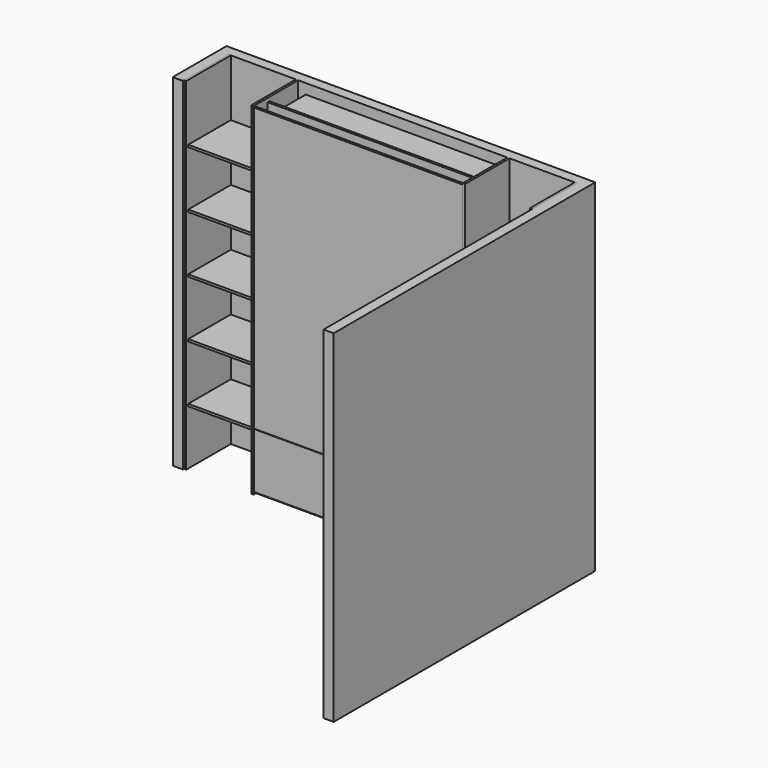
from build123d import *

# Parameters (mm, degrees)
F1_DEPTH       = 2700
F2_W           = 1530
F2_H           = 2030
F3_DEPTH       = 300
F4_W           = 18
F4_H           = 2700
F5_DEPTH       = 440
F6_W           = 18
F6_H           = 2700
F7_DEPTH       = 440
F8_W           = 514
F8_H           = 18
F9_DEPTH       = 420
F12_DEPTH      = 822
F12_DEPTH_BACK = 822
F13_W          = 300
F13_H          = 18
F14_DEPTH      = 825
F14_DEPTH_BACK = 825
F16_DEPTH      = 822
F16_DEPTH_BACK = 822
F17_W          = 18
F17_H          = 80
F18_DEPTH      = 825
F18_DEPTH_BACK = 825
F19_W          = 18
F19_H          = 2158
F20_DEPTH      = 800
F20_DEPTH_BACK = 800


with BuildPart() as f1:
    # F0 (on Top) → F1 (new body)
    with BuildSketch(Plane.XY):
        Polygon((-1455, -450), (-1375, -450), (-1375, 0), (1375, 0), (1375, -2500), (1455, -2500), (1455, 80), (-1455, 80), align=None)
    extrude(amount=F1_DEPTH)


with BuildPart() as f3:
    # F2 (on Front) → F3 (new body)
    with BuildSketch(Plane.XZ):
        with Locations((0, 1605)):
            Rectangle(F2_W, F2_H)
    extrude(amount=F3_DEPTH)


with BuildPart() as f5:
    # F4 (on Front) → F5 (new body)
    with BuildSketch(Plane.XZ):
        with Locations((-834, 1350)):
            Rectangle(F4_W, F4_H)
    extrude(amount=F5_DEPTH)


with BuildPart() as f7:
    # F6 (on Front) → F7 (new body)
    with BuildSketch(Plane.XZ):
        with Locations((-1366, 1350)):
            Rectangle(F6_W, F6_H)
    extrude(amount=F7_DEPTH)


with BuildPart() as f9:
    # F8 (on Front) → F9 (new body)
    with BuildSketch(Plane.XZ):
        with Locations((-1100, 2241)):
            Rectangle(F8_W, F8_H)
    extrude(amount=F9_DEPTH)


with BuildPart() as f9b:
    # F8 (on Front) → F9, piece 2 (new body)
    with BuildSketch(Plane.XZ):
        with Locations((-1100, 1791)):
            Rectangle(F8_W, F8_H)
    extrude(amount=F9_DEPTH)


with BuildPart() as f9c:
    # F8 (on Front) → F9, piece 3 (new body)
    with BuildSketch(Plane.XZ):
        with Locations((-1100, 1341)):
            Rectangle(F8_W, F8_H)
    extrude(amount=F9_DEPTH)


with BuildPart() as f9d:
    # F8 (on Front) → F9, piece 4 (new body)
    with BuildSketch(Plane.XZ):
        with Locations((-1100, 891)):
            Rectangle(F8_W, F8_H)
    extrude(amount=F9_DEPTH)


with BuildPart() as f9e:
    # F8 (on Front) → F9, piece 5 (new body)
    with BuildSketch(Plane.XZ):
        with Locations((-1100, 441)):
            Rectangle(F8_W, F8_H)
    extrude(amount=F9_DEPTH)


with BuildPart() as f10_1:
    # F10: instance of F7
    add(f7.part.mirror(Plane.YZ))


with BuildPart() as f10_2:
    # F10: instance of F5
    add(f5.part.mirror(Plane.YZ))


with BuildPart() as f10_3:
    # F10: instance of F9
    add(f9.part.mirror(Plane.YZ))


with BuildPart() as f10_4:
    # F10: instance of F9b
    add(f9b.part.mirror(Plane.YZ))


with BuildPart() as f10_5:
    # F10: instance of F9c
    add(f9c.part.mirror(Plane.YZ))


with BuildPart() as f10_6:
    # F10: instance of F9d
    add(f9d.part.mirror(Plane.YZ))


with BuildPart() as f10_7:
    # F10: instance of F9e
    add(f9e.part.mirror(Plane.YZ))


with BuildPart() as f12:
    # F11 (on Right) → F12 (new body, two sides)
    with BuildSketch(Plane.YZ) as f12_sk:
        Polygon((-422, 442), (-422, 2690), (-440, 2690), (-440, 460), align=None)
    extrude(amount=F12_DEPTH)
    extrude(f12_sk.sketch, amount=-F12_DEPTH_BACK)


with BuildPart() as f14:
    # F13 (on Right) → F14 (new body, two sides)
    with BuildSketch(Plane.YZ) as f14_sk:
        with Locations((-150, 581)):
            Rectangle(F13_W, F13_H)
    extrude(amount=F14_DEPTH)
    extrude(f14_sk.sketch, amount=-F14_DEPTH_BACK)


with BuildPart() as f16:
    # F15 (on Right) → F16 (new body, two sides)
    with BuildSketch(Plane.YZ) as f16_sk:
        Polygon((-422, 20), (-422, 439), (-440, 457), (-440, 20), align=None)
    extrude(amount=F16_DEPTH)
    extrude(f16_sk.sketch, amount=-F16_DEPTH_BACK)


with BuildPart() as f18:
    # F17 (on Right) → F18 (new body, two sides)
    with BuildSketch(Plane.YZ) as f18_sk:
        with Locations((-407, 40)):
            Rectangle(F17_W, F17_H)
    extrude(amount=F18_DEPTH)
    extrude(f18_sk.sketch, amount=-F18_DEPTH_BACK)


with BuildPart() as f20:
    # F19 (on Right) → F20 (new body, two sides)
    with BuildSketch(Plane.YZ) as f20_sk:
        with Locations((-323, 1611)):
            Rectangle(F19_W, F19_H)
    extrude(amount=F20_DEPTH)
    extrude(f20_sk.sketch, amount=-F20_DEPTH_BACK)


solid = Compound([f1.part, f3.part, f5.part, f7.part, f9.part, f9b.part, f9c.part, f9d.part, f9e.part, f10_1.part, f10_2.part, f10_3.part, f10_4.part, f10_5.part, f10_6.part, f10_7.part, f12.part, f14.part, f16.part, f18.part, f20.part])
